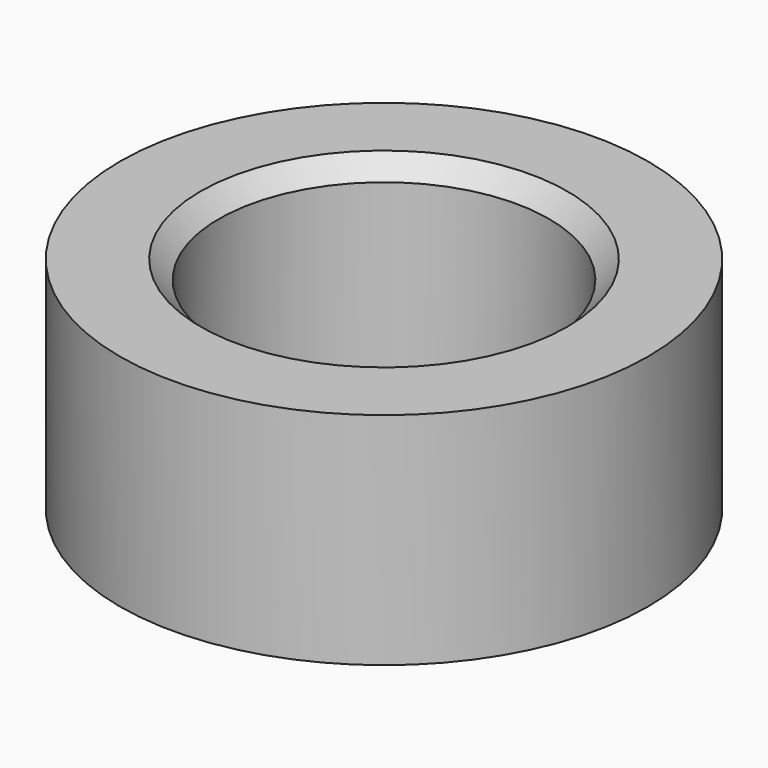
from build123d import *

# Parameters (mm, degrees)
F0_R     = 7.2
F0_R_2   = 4.5
F1_DEPTH = 6
F2_SIZE2 = 0.5
F2_SIZE  = 0.5
F3_SIZE2 = 0.5
F3_SIZE  = 0.5


with BuildPart() as f1:
    # F0 (on Top) → F1 (new body)
    with BuildSketch(Plane.XY):
        Circle(F0_R)
        Circle(F0_R_2, mode=Mode.SUBTRACT)
    extrude(amount=F1_DEPTH)

    # F2
    f2_edges = [f1.edges().sort_by_distance(p)[0] for p in [
        (-4.5, 0, 6),
    ]]
    chamfer(f2_edges, length=F2_SIZE, length2=F2_SIZE2)

    # F3
    f3_edges = [f1.edges().sort_by_distance(p)[0] for p in [
        (-4.5, 0, 0),
    ]]
    chamfer(f3_edges, length=F3_SIZE, length2=F3_SIZE2)


solid = f1.part
